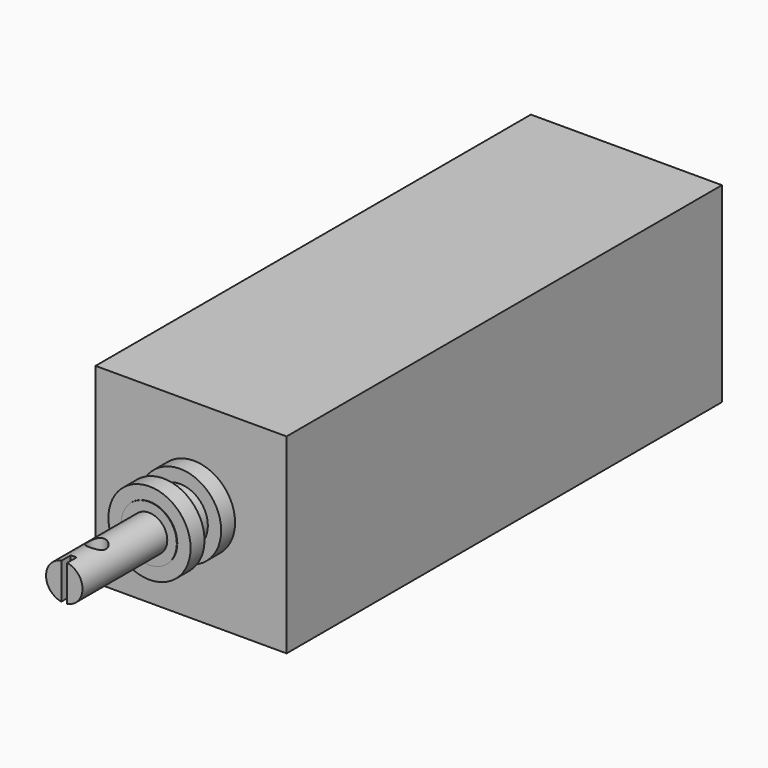
from build123d import *

# Parameters (mm, degrees)
BOX001_W          = 1
BOX001_H          = 2
BOX001_DEPTH      = 6.4
CYLINDER003_R     = 1.6
CYLINDER003_DEPTH = 6.5
CYLINDER001_R     = 4.8
CYLINDER001_DEPTH = 6.7
CYLINDER002_R     = 3.15
CYLINDER002_DEPTH = 19
CYLINDER004_R     = 7.1
CYLINDER004_DEPTH = 3
CYLINDER_R        = 7.1
CYLINDER_DEPTH    = 3
BOX_W             = 33
BOX_H             = 94
BOX_DEPTH         = 33


with BuildPart() as slit001:
    # Box001 → Box001 (new body)
    with BuildSketch(Plane(origin=(17.5, 48, 16.8), x_dir=(1, 0, 0), z_dir=(0, 0, 1))):
        with Locations((0.5, 1)):
            Rectangle(BOX001_W, BOX001_H)
    extrude(amount=BOX001_DEPTH)


with BuildPart() as hole001:
    # Cylinder003 → Cylinder003 (new body)
    with BuildSketch(Plane(origin=(18, 55, 16.7), x_dir=(1, 0, 0), z_dir=(0, 0, 1))):
        Circle(CYLINDER003_R)
    extrude(amount=CYLINDER003_DEPTH)


with BuildPart() as shaft002:
    # Cylinder001 → Cylinder001 (new body)
    with BuildSketch(Plane(origin=(18, 73, 20), x_dir=(1, 0, 0), z_dir=(0, -1, 0))):
        Circle(CYLINDER001_R)
    extrude(amount=CYLINDER001_DEPTH)


with BuildPart() as shaft003:
    # Cylinder002 → Cylinder002 (new body)
    with BuildSketch(Plane(origin=(18, 67, 20), x_dir=(1, 0, 0), z_dir=(0, -1, 0))):
        Circle(CYLINDER002_R)
    extrude(amount=CYLINDER002_DEPTH)


with BuildPart() as shaft004:
    # Cylinder004 → Cylinder004 (new body)
    with BuildSketch(Plane(origin=(18, 69.4, 20), x_dir=(1, 0, 0), z_dir=(0, -1, 0))):
        Circle(CYLINDER004_R)
    extrude(amount=CYLINDER004_DEPTH)


with BuildPart() as obj1:
    # Cylinder → Cylinder (new body)
    with BuildSketch(Plane(origin=(18, 76, 20), x_dir=(1, 0, 0), z_dir=(0, -1, 0))):
        Circle(CYLINDER_R)
    extrude(amount=CYLINDER_DEPTH)

    # Fusion: union shaft002, shaft003, shaft004
    add(shaft002.part)
    add(shaft003.part)
    add(shaft004.part)

    # Cut: cut hole001
    add(hole001.part, mode=Mode.SUBTRACT)

    # Cut001: cut slit001
    add(slit001.part, mode=Mode.SUBTRACT)


with BuildPart() as obj1_1:
    # Cut001 placement: moved
    add(obj1.part.moved(Location((-1, 0, -3))))


with BuildPart() as cap001:
    # Box → Box (new body)
    with BuildSketch(Plane(origin=(0, 76, 0), x_dir=(1, 0, 0), z_dir=(0, 0, 1))):
        with Locations((16.5, 47)):
            Rectangle(BOX_W, BOX_H)
    extrude(amount=BOX_DEPTH)

    # Fusion001: union obj1
    add(obj1_1.part)


with BuildPart() as cap001_1:
    # Fusion001 placement: moved
    add(cap001.part.moved(Location((1, 0, 3))))


solid = cap001_1.part
